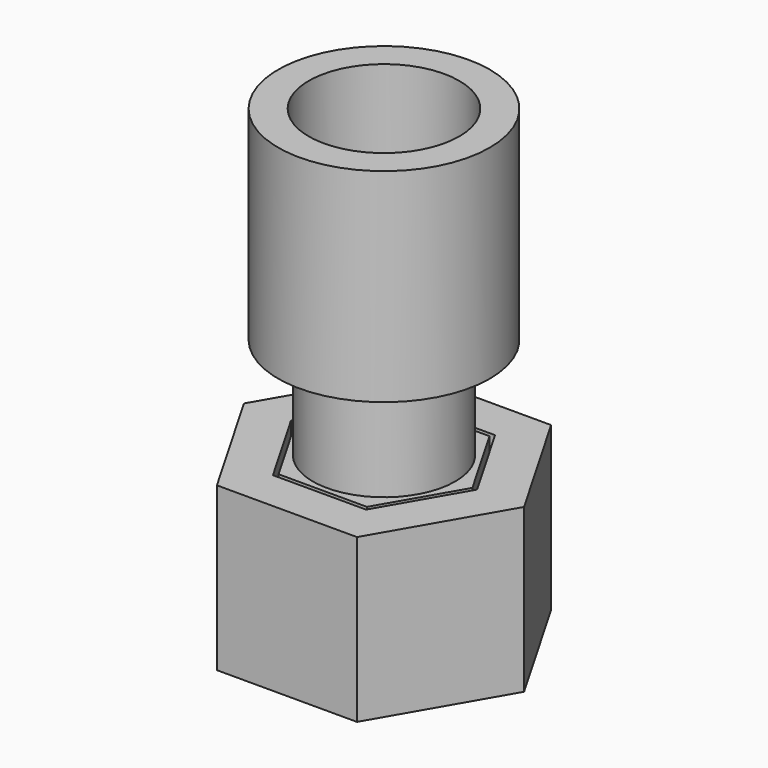
from build123d import *

# Parameters (mm, degrees)
F1_DEPTH = 6
F0_R     = 2.25
F2_DEPTH = 2
F3_R     = 3.5
F3_R_2   = 2.25
F4_DEPTH = 3
F5_DEPTH = 10
F6_R     = 5.2
F6_R_2   = 3.7
F7_DEPTH = 5


with BuildPart() as f1:
    # F0 (on Top) → F1 (new body)
    with BuildSketch(Plane.XY):
        Polygon((3.443375673, 5.9641016151), (-3.443375673, 5.9641016151), (-6.8867513459, 0), (-3.443375673, -5.9641016151), (3.443375673, -5.9641016151), (6.8867513459, 0), align=None)
        Polygon((-2.2886751346, -3.9641016151), (-4.5773502692, 0), (-2.2886751346, 3.9641016151), (2.2886751346, 3.9641016151), (4.5773502692, 0), (2.2886751346, -3.9641016151), align=None, mode=Mode.SUBTRACT)
    extrude(amount=F1_DEPTH)

    # F0 (on Top) → F2 (join)
    with BuildSketch(Plane.XY):
        Polygon((3.443375673, 5.9641016151), (-3.443375673, 5.9641016151), (-6.8867513459, 0), (-3.443375673, -5.9641016151), (3.443375673, -5.9641016151), (6.8867513459, 0), align=None)
        Polygon((-2.2886751346, -3.9641016151), (-4.5773502692, 0), (-2.2886751346, 3.9641016151), (2.2886751346, 3.9641016151), (4.5773502692, 0), (2.2886751346, -3.9641016151), align=None, mode=Mode.SUBTRACT)
        Polygon((-2.2886751346, 3.9641016151), (-4.5773502692, 0), (-2.2886751346, -3.9641016151), (2.2886751346, -3.9641016151), (4.5773502692, 0), (2.2886751346, 3.9641016151), align=None)
        Polygon((2, 3.4641016151), (4, 0), (2, -3.4641016151), (-2, -3.4641016151), (-4, 0), (-2, 3.4641016151), align=None, mode=Mode.SUBTRACT)
        Polygon((2, -3.4641016151), (4, 0), (2, 3.4641016151), (-2, 3.4641016151), (-4, 0), (-2, -3.4641016151), align=None)
        Circle(F0_R, mode=Mode.SUBTRACT)
    extrude(amount=-F2_DEPTH)


with BuildPart() as f4:
    # F3 (on face) → F4 (new body)
    with BuildSketch(Plane.XY.offset(6)):
        Polygon((-2.1732050808, 3.7641016151), (-4.3464101615, 0), (-2.1732050808, -3.7641016151), (2.1732050808, -3.7641016151), (4.3464101615, 0), (2.1732050808, 3.7641016151), align=None)
        Circle(F3_R, mode=Mode.SUBTRACT)
        Circle(F3_R)
        Circle(F3_R_2, mode=Mode.SUBTRACT)
    extrude(amount=-F4_DEPTH)

    # F3 (on face) → F5 (join)
    with BuildSketch(Plane.XY.offset(6)):
        Circle(F3_R)
        Circle(F3_R_2, mode=Mode.SUBTRACT)
    extrude(amount=F5_DEPTH)


with BuildPart() as f7:
    # F6 (on face) → F7 (new body, symmetric)
    with BuildSketch(Plane.XY.offset(16)):
        Circle(F6_R)
        Circle(F6_R_2, mode=Mode.SUBTRACT)
    extrude(amount=F7_DEPTH, both=True)


solid = Compound([f1.part, f4.part, f7.part])
